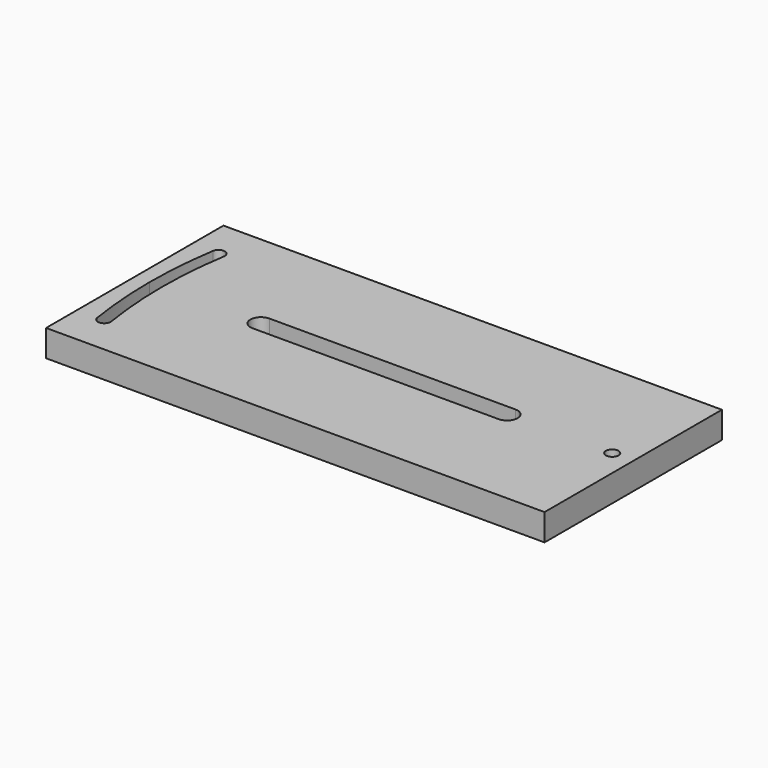
from build123d import *

# Parameters (mm, degrees)
F0_W     = 236.99978
F0_H     = 105.4
F1_DEPTH = 12.7
F2_R     = 3
F3_DEPTH = 12.701
F4_DEPTH = 2.54


with BuildPart() as f1:
    # F0 (on Top) → F1 (new body)
    with BuildSketch(Plane.XY):
        with Locations((0.00011, 0)):
            Rectangle(F0_W, F0_H)
    extrude(amount=F1_DEPTH)

    # F2 (on Top) → F3 (cut, through all)
    with BuildSketch(Plane.XY):
        with BuildLine():
            Line((0, 5), (-58.49989, 5))
            ThreePointArc((-58.49989, 5), (-63.49989, 0), (-58.49989, -5))
            Line((-58.49989, -5), (0, -5))
            Line((0, -5), (58.50011, -5))
            ThreePointArc((58.50011, -5), (63.50011, 0), (58.50011, 5))
            Line((58.50011, 5), (0, 5))
        make_face()
        with BuildLine():
            ThreePointArc((-108.791217, 34.415555), (-106.297456, 30.983186), (-102.865087, 33.476947))
            ThreePointArc((-102.865087, 33.476947), (-102.8374, 33.710873), (-102.828152, 33.946251))
            ThreePointArc((-102.828152, 33.946251), (-105.592775, 36.937003), (-108.791217, 34.415555))
        make_face()
        with BuildLine():
            ThreePointArc((-102.865087, -33.476947), (-104.84009, -16.790232), (-105.49978, 0))
            ThreePointArc((-105.49978, 0), (-104.84009, 16.790232), (-102.865087, 33.476947))
            ThreePointArc((-102.865087, 33.476947), (-106.297456, 30.983186), (-108.791217, 34.415555))
            ThreePointArc((-108.791217, 34.415555), (-110.821594, 17.260987), (-111.49978, 0))
            ThreePointArc((-111.49978, 0), (-110.821594, -17.260987), (-108.791217, -34.415554))
            ThreePointArc((-108.791217, -34.415554), (-106.297456, -30.983186), (-102.865087, -33.476947))
        make_face()
        with BuildLine():
            ThreePointArc((-102.828152, -33.946251), (-102.8374, -33.710873), (-102.865087, -33.476947))
            ThreePointArc((-102.865087, -33.476947), (-106.297456, -30.983186), (-108.791217, -34.415554))
            ThreePointArc((-108.791217, -34.415554), (-105.592775, -36.937003), (-102.828152, -33.946251))
        make_face()
        with Locations((108.50004, 0)):
            Circle(F2_R)
    extrude(amount=F3_DEPTH, mode=Mode.SUBTRACT)

    # F2 (on Top) → F4 (cut)
    with BuildSketch(Plane.XY):
        with BuildLine():
            Line((0, 10), (-58.49989, 10))
            ThreePointArc((-58.49989, 10), (-68.49989, 0), (-58.49989, -10))
            Line((-58.49989, -10), (0, -10))
            Line((0, -10), (58.50011, -10))
            ThreePointArc((58.50011, -10), (68.50011, 0), (58.50011, 10))
            Line((58.50011, 10), (0, 10))
        make_face()
        with BuildLine():
            ThreePointArc((-58.49989, -5), (-63.49989, 0), (-58.49989, 5))
            Line((-58.49989, 5), (0, 5))
            Line((0, 5), (58.50011, 5))
            ThreePointArc((58.50011, 5), (63.50011, 0), (58.50011, -5))
            Line((58.50011, -5), (0, -5))
            Line((0, -5), (-58.49989, -5))
        make_face(mode=Mode.SUBTRACT)
    extrude(amount=F4_DEPTH, mode=Mode.SUBTRACT)


solid = f1.part
